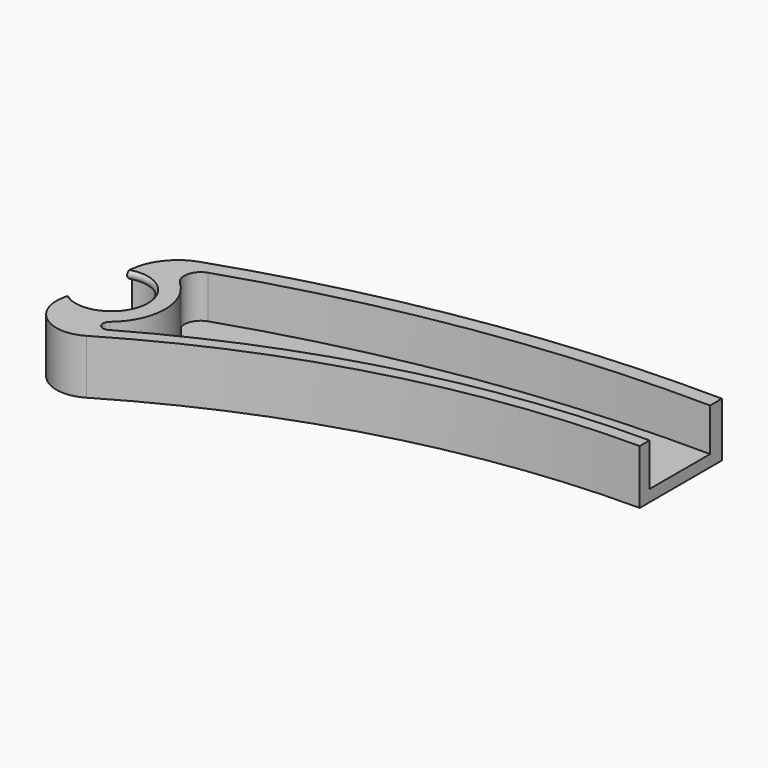
from build123d import *

# Parameters (mm, degrees)
PAD003_DEPTH = 3.5
POCKET_DEPTH = 5.5


with BuildPart() as obj1:
    # Sketch010 → Pad003 (new body, symmetric)
    with BuildSketch(Plane.XY):
        with BuildLine():
            ThreePointArc((59.498979, 20.271308), (30.157918, 27.585958), (0, 29.8))
            Line((0, 29.8), (0, 16.6))
            ThreePointArc((58.317055, 0.623642), (30.232941, 12.533656), (0, 16.6))
            ThreePointArc((58.317055, 0.623642), (63.354776, 0.781276), (65.351677, 5.409004))
            Line((63.7883, 15.177117), (65.351677, 5.409004))
            ThreePointArc((63.7883, 15.177117), (62.350118, 18.319069), (59.498979, 20.271308))
        make_face()
    extrude(amount=PAD003_DEPTH, both=True)

    # Sketch009 → Pocket (cut)
    with BuildSketch(Plane.XY.offset(3.5)):
        with BuildLine():
            Line((0, 27.898268), (0, 18.183007))
            ThreePointArc((57.375322, 3.010124), (29.674349, 14.327664), (0, 18.183007))
            ThreePointArc((57.375322, 3.010124), (58.546948, 3.277627), (58.382807, 4.46814))
            ThreePointArc((58.112759, 15.405314), (55.75963, 9.875292), (58.382807, 4.46814))
            ThreePointArc((58.112759, 15.405314), (58.750082, 17.397997), (57.35497, 18.957045))
            ThreePointArc((57.35497, 18.957045), (29.050369, 25.819583), (0, 27.898268))
        make_face()
    extrude(amount=-POCKET_DEPTH, mode=Mode.SUBTRACT)

    # Sketch011 (on Face2 of Pocket) → Groove (revolve, cut)
    with BuildSketch(Plane(origin=(62.588677, 10.017255, 0), x_dir=(-0.158038, 0.987433, 0), z_dir=(0.987433, 0.158038, 0))):
        with BuildLine():
            Line((0, -3.6), (0, 3.6))
            Line((0, 3.6), (5, 3.6))
            ThreePointArc((5, 3.6), (4.4, 3), (5, 2.4))
            Line((5, -2.4), (5, 2.4))
            ThreePointArc((5, -2.4), (4.400007, -3), (5, -3.6))
            Line((0, -3.6), (5, -3.6))
        make_face()
    revolve(axis=Axis((62.588677, 10.017255, 0), (0, 0, 1)), mode=Mode.SUBTRACT)


with BuildPart() as part_mirroring:
    # Part__Mirroring: instance of obj1
    add(obj1.part.mirror(Plane(origin=(0, 0, 0), x_dir=(0, -1, 0), z_dir=(1, 0, 0))))


solid = part_mirroring.part
